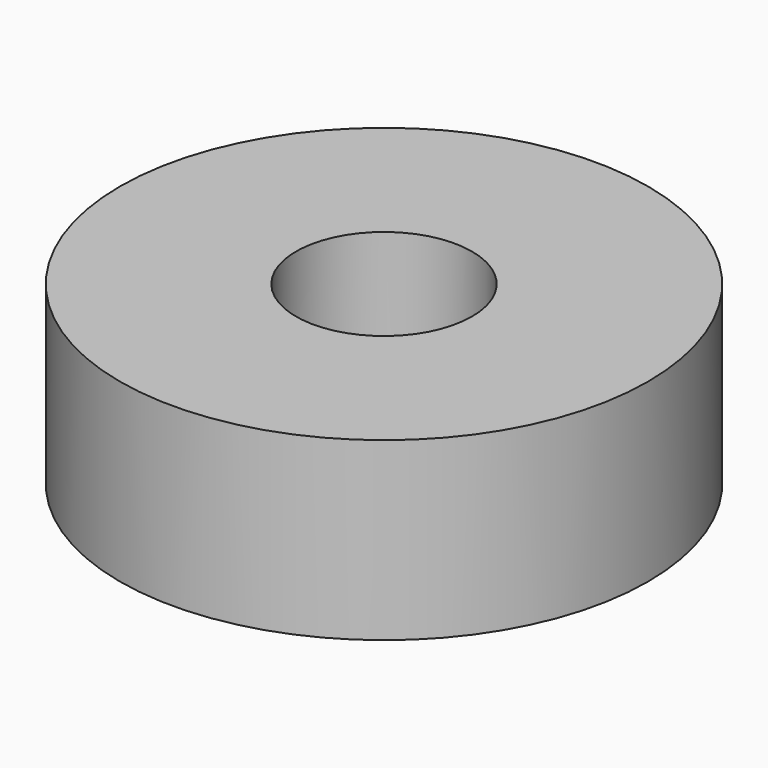
from build123d import *

# Parameters (mm, degrees)
F1_R     = 7.5
F1_R_2   = 2.5
F2_DEPTH = 5


with BuildPart() as f2:
    # F1 (on face) → F2 (new body)
    with BuildSketch(Plane.XY):
        Circle(F1_R)
        Circle(F1_R_2, mode=Mode.SUBTRACT)
    extrude(amount=F2_DEPTH)


solid = f2.part
